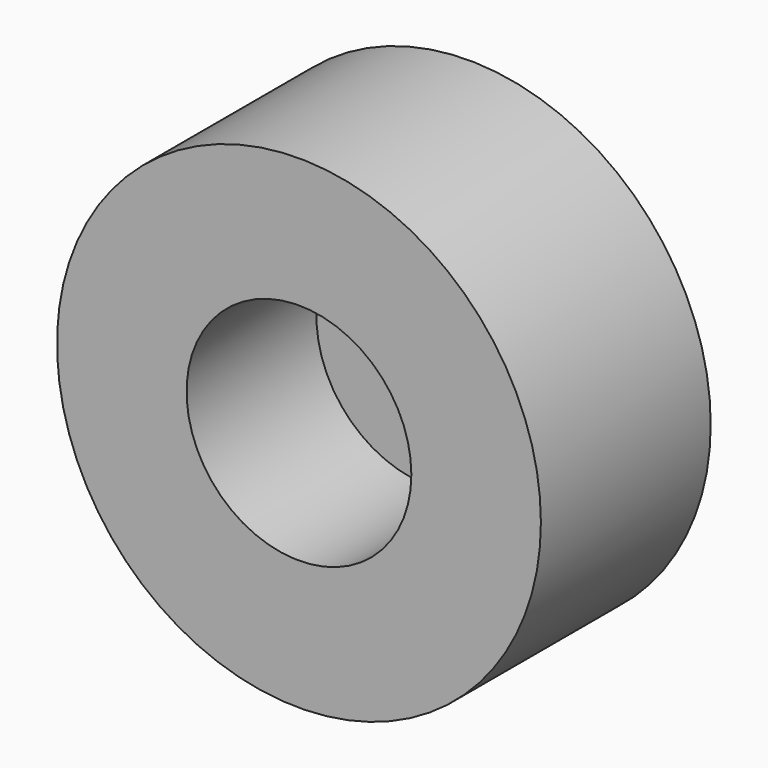
from build123d import *

# Parameters (mm, degrees)
F0_R     = 19.685
F1_DEPTH = 17.272
F3_R     = 9.144
F5_DEPTH = 13.208


with BuildPart() as f1:
    # F0 (on Front) → F1 (new body)
    with BuildSketch(Plane.XZ):
        with Locations((291.698039, 104.722686)):
            Circle(F0_R)
    extrude(amount=F1_DEPTH)

    # F3 (on face) → F5 (cut)
    with BuildSketch(Plane.XZ.offset(17.272)):
        with Locations((291.698039, 104.722686)):
            Circle(F3_R)
    extrude(amount=-F5_DEPTH, mode=Mode.SUBTRACT)


with BuildPart() as f6_1:
    # F6: copy of F1
    add(f1.part)


solid = Compound([f1.part, f6_1.part])
